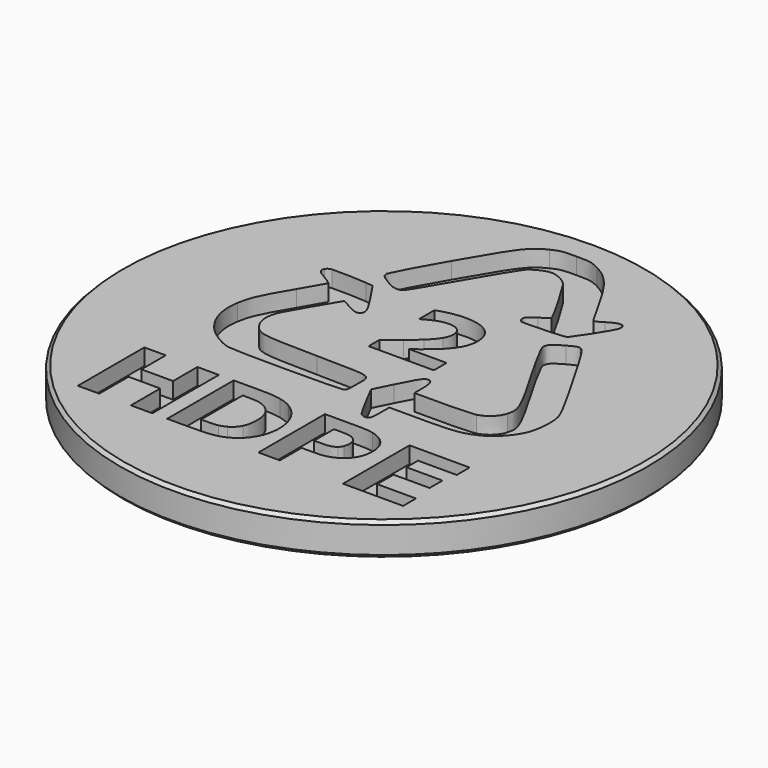
from build123d import *

# Parameters (mm, degrees)
POCKET_DEPTH = 1.25


with BuildPart() as part:
    # Sketch (on DatumPlane) → Revolution (revolve)
    with BuildSketch(Plane.YZ):
        Polygon((0, 0), (0, -2.5), (19.75, -2.5), (20, -2.25), (20, -0.25), (19.75, 0), align=None)
    revolve(axis=Axis((0, 0, 0), (0, 0, 1)))

    # Sketch005 → Pocket (cut)
    with BuildSketch(Plane.XY):
        with BuildLine():
            add(Edge.make_bspline(
                [(2.855006, -5.683383), (2.765753, -5.578961), (2.386869, -4.907978), (2.013278, -4.191839)],
                knots=[0, 0, 0, 0, 1, 1, 1, 1], degree=3))
            add(Edge.make_bspline(
                [(2.013278, -4.191839), (1.334181, -2.890089)],
                knots=[0, 0, 4.161938, 4.161938], degree=1))
            add(Edge.make_bspline(
                [(1.334181, -2.890089), (2.008692, -1.539303)],
                knots=[0, 0, 4.279835, 4.279835], degree=1))
            add(Edge.make_bspline(
                [(2.008692, -1.539303), (2.748467, -0.057989), (2.921328, 0.190367), (3.214133, 0.190367)],
                knots=[0, 0, 0, 0, 1, 1, 1, 1], degree=3))
            add(Edge.make_bspline(
                [(3.214133, 0.190367), (3.507997, 0.190367), (3.633939, -0.149006), (3.633939, -0.939228)],
                knots=[0, 0, 0, 0, 1, 1, 1, 1], degree=3))
            add(Edge.make_bspline(
                [(3.633939, -0.939228), (3.633939, -1.650075)],
                knots=[0, 0, 2.015, 2.015], degree=1))
            add(Edge.make_bspline(
                [(3.633939, -1.650075), (5.697336, -1.650075)],
                knots=[0, 0, 5.849, 5.849], degree=1))
            add(Edge.make_bspline(
                [(5.697336, -1.650075), (6.880553, -1.650075), (7.969225, -1.597511), (8.249683, -1.526956)],
                knots=[0, 0, 0, 0, 1, 1, 1, 1], degree=3))
            add(Edge.make_bspline(
                [(8.249683, -1.526956), (8.877275, -1.368911), (9.424081, -0.854208), (9.580361, -0.274594)],
                knots=[0, 0, 0, 0, 1, 1, 1, 1], degree=3))
            add(Edge.make_bspline(
                [(9.580361, -0.274594), (9.818839, 0.610525), (9.748283, 0.765747), (6.774014, 5.901839)],
                knots=[0, 0, 0, 0, 1, 1, 1, 1], degree=3))
            add(Edge.make_bspline(
                [(6.774014, 5.901839), (6.282594, 6.750269), (5.880781, 7.566244), (5.880781, 7.714764)],
                knots=[0, 0, 0, 0, 1, 1, 1, 1], degree=3))
            add(Edge.make_bspline(
                [(5.880781, 7.714764), (5.880781, 8.085181), (6.047292, 8.256983), (6.833281, 8.696544)],
                knots=[0, 0, 0, 0, 1, 1, 1, 1], degree=3))
            add(Edge.make_bspline(
                [(6.833281, 8.696544), (7.405486, 9.016514), (7.548008, 9.056025), (7.763908, 8.955483)],
                knots=[0, 0, 0, 0, 1, 1, 1, 1], degree=3))
            add(Edge.make_bspline(
                [(7.763908, 8.955483), (7.924422, 8.880694), (8.320592, 8.306725), (8.830708, 7.409611)],
                knots=[0, 0, 0, 0, 1, 1, 1, 1], degree=3))
            add(Edge.make_bspline(
                [(8.830708, 7.409611), (9.277325, 6.625033), (10.186433, 5.042825), (10.851067, 3.893828)],
                knots=[0, 0, 0, 0, 1, 1, 1, 1], degree=3))
            add(Edge.make_bspline(
                [(10.851067, 3.893828), (11.566147, 2.657694), (12.113306, 1.581369), (12.190917, 1.257872)],
                knots=[0, 0, 0, 0, 1, 1, 1, 1], degree=3))
            add(Edge.make_bspline(
                [(12.190917, 1.257872), (12.392353, 0.418967), (12.279464, -0.828456), (11.937269, -1.547064)],
                knots=[0, 0, 0, 0, 1, 1, 1, 1], degree=3))
            add(Edge.make_bspline(
                [(11.937269, -1.547064), (11.574967, -2.307653), (10.842247, -3.076003), (10.139161, -3.432308)],
                knots=[0, 0, 0, 0, 1, 1, 1, 1], degree=3))
            add(Edge.make_bspline(
                [(10.139161, -3.432308), (9.119986, -3.948775), (8.542842, -4.032031), (5.993317, -4.032031)],
                knots=[0, 0, 0, 0, 1, 1, 1, 1], degree=3))
            add(Edge.make_bspline(
                [(5.993317, -4.032031), (3.633939, -4.032031)],
                knots=[0, 0, 6.688, 6.688], degree=1))
            add(Edge.make_bspline(
                [(3.633939, -4.032031), (3.633939, -4.780978)],
                knots=[0, 0, 2.123, 2.123], degree=1))
            add(Edge.make_bspline(
                [(3.633939, -4.780978), (3.633939, -5.193022), (3.604658, -5.607183), (3.568322, -5.701375)],
                knots=[0, 0, 0, 0, 1, 1, 1, 1], degree=3))
            add(Edge.make_bspline(
                [(3.568322, -5.701375), (3.480481, -5.929975), (3.058206, -5.919392), (2.855006, -5.683383)],
                knots=[0, 0, 0, 0, 1, 1, 1, 1], degree=3))
        make_face()
        with BuildLine():
            add(Edge.make_bspline(
                [(2.708603, 1.340069), (-2.235578, 1.340069)],
                knots=[0, 0, 14.015, 14.015], degree=1))
            add(Edge.make_bspline(
                [(-2.235578, 1.340069), (-2.235578, 2.380764)],
                knots=[0, 0, 2.95, 2.95], degree=1))
            add(Edge.make_bspline(
                [(-2.235578, 2.380764), (-1.857753, 2.654167), (-1.479222, 2.944503), (-1.099986, 3.251772)],
                knots=[0, 0, 0, 0, 1, 1, 1, 1], degree=3))
            add(Edge.make_bspline(
                [(-1.099986, 3.251772), (-0.72075, 3.559042), (-0.417008, 3.824331), (-0.188761, 4.046933)],
                knots=[0, 0, 0, 0, 1, 1, 1, 1], degree=3))
            add(Edge.make_bspline(
                [(-0.188761, 4.046933), (0.152375, 4.376781), (0.395086, 4.664294), (0.538667, 4.909828)],
                knots=[0, 0, 0, 0, 1, 1, 1, 1], degree=3))
            add(Edge.make_bspline(
                [(0.538667, 4.909828), (0.6826, 5.155008), (0.754567, 5.397367), (0.754567, 5.637256)],
                knots=[0, 0, 0, 0, 1, 1, 1, 1], degree=3))
            add(Edge.make_bspline(
                [(0.754567, 5.637256), (0.754567, 5.924769), (0.662139, 6.146667), (0.477636, 6.3033)],
                knots=[0, 0, 0, 0, 1, 1, 1, 1], degree=3))
            add(Edge.make_bspline(
                [(0.477636, 6.3033), (0.292781, 6.459581), (0.027139, 6.537897), (-0.319642, 6.537897)],
                knots=[0, 0, 0, 0, 1, 1, 1, 1], degree=3))
            add(Edge.make_bspline(
                [(-0.319642, 6.537897), (-0.579286, 6.537897), (-0.851983, 6.484275), (-1.138086, 6.377383)],
                knots=[0, 0, 0, 0, 1, 1, 1, 1], degree=3))
            add(Edge.make_bspline(
                [(-1.138086, 6.377383), (-1.424189, 6.270139), (-1.689831, 6.133261), (-1.935364, 5.967103)],
                knots=[0, 0, 0, 0, 1, 1, 1, 1], degree=3))
            add(Edge.make_bspline(
                [(-1.935364, 5.967103), (-2.070478, 5.967103)],
                knots=[0, 0, 0.383, 0.383], degree=1))
            add(Edge.make_bspline(
                [(-2.070478, 5.967103), (-2.070478, 7.366925)],
                knots=[0, 0, 3.968, 3.968], degree=1))
            add(Edge.make_bspline(
                [(-2.070478, 7.366925), (-1.870453, 7.454414), (-1.575178, 7.54155), (-1.184653, 7.629039)],
                knots=[0, 0, 0, 0, 1, 1, 1, 1], degree=3))
            add(Edge.make_bspline(
                [(-1.184653, 7.629039), (-0.794128, 7.716528), (-0.402897, 7.760272), (-0.010961, 7.760272)],
                knots=[0, 0, 0, 0, 1, 1, 1, 1], degree=3))
            add(Edge.make_bspline(
                [(-0.010961, 7.760272), (0.778556, 7.760272), (1.380394, 7.594467), (1.794908, 7.263208)],
                knots=[0, 0, 0, 0, 1, 1, 1, 1], degree=3))
            add(Edge.make_bspline(
                [(1.794908, 7.263208), (2.209422, 6.93195), (2.416503, 6.463108), (2.416503, 5.857036)],
                knots=[0, 0, 0, 0, 1, 1, 1, 1], degree=3))
            add(Edge.make_bspline(
                [(2.416503, 5.857036), (2.416503, 5.459456), (2.317372, 5.081631), (2.118406, 4.723561)],
                knots=[0, 0, 0, 0, 1, 1, 1, 1], degree=3))
            add(Edge.make_bspline(
                [(2.118406, 4.723561), (1.919792, 4.365492), (1.615697, 3.996133), (1.207181, 3.615486)],
                knots=[0, 0, 0, 0, 1, 1, 1, 1], degree=3))
            add(Edge.make_bspline(
                [(1.207181, 3.615486), (0.950358, 3.378772), (0.692478, 3.160756), (0.433186, 2.962142)],
                knots=[0, 0, 0, 0, 1, 1, 1, 1], degree=3))
            add(Edge.make_bspline(
                [(0.433186, 2.962142), (0.173542, 2.763175), (-0.010961, 2.624533), (-0.121028, 2.545511)],
                knots=[0, 0, 0, 0, 1, 1, 1, 1], degree=3))
            add(Edge.make_bspline(
                [(-0.121028, 2.545511), (2.708603, 2.545511)],
                knots=[0, 0, 8.021, 8.021], degree=1))
            add(Edge.make_bspline(
                [(2.708603, 2.545511), (2.708603, 1.340069)],
                knots=[0, 0, 3.417, 3.417], degree=1))
        make_face()
        with BuildLine():
            add(Edge.make_bspline(
                [(-6.336972, 8.397389), (-7.057697, 8.820369), (-7.192811, 8.955483), (-7.192811, 9.251464)],
                knots=[0, 0, 0, 0, 1, 1, 1, 1], degree=3))
            add(Edge.make_bspline(
                [(-7.192811, 9.251464), (-7.192811, 9.396808), (-6.304869, 11.058744), (-5.218314, 12.946458)],
                knots=[0, 0, 0, 0, 1, 1, 1, 1], degree=3))
            add(Edge.make_bspline(
                [(-5.218314, 12.946458), (-3.072719, 16.673203), (-2.713944, 17.144867), (-1.614689, 17.682853)],
                knots=[0, 0, 0, 0, 1, 1, 1, 1], degree=3))
            add(Edge.make_bspline(
                [(-1.614689, 17.682853), (-1.024139, 17.971517), (-0.867153, 17.999354), (0.1746, 17.999982)],
                knots=[0, 0, 0, 0, 1, 1, 1, 1], degree=3))
            add(Edge.make_bspline(
                [(0.1746, 17.999982), (1.262214, 18.000643), (1.351467, 17.982987), (2.052083, 17.62759)],
                knots=[0, 0, 0, 0, 1, 1, 1, 1], degree=3))
            add(Edge.make_bspline(
                [(2.052083, 17.62759), (3.126292, 17.08269), (3.813503, 16.269678), (4.987547, 14.153999)],
                knots=[0, 0, 0, 0, 1, 1, 1, 1], degree=3))
            add(Edge.make_bspline(
                [(4.987547, 14.153999), (5.523417, 13.188093), (6.010603, 12.332607), (6.070222, 12.252527)],
                knots=[0, 0, 0, 0, 1, 1, 1, 1], degree=3))
            add(Edge.make_bspline(
                [(6.070222, 12.252527), (6.157006, 12.13611), (6.294942, 12.181618), (6.768722, 12.482891)],
                knots=[0, 0, 0, 0, 1, 1, 1, 1], degree=3))
            add(Edge.make_bspline(
                [(6.768722, 12.482891), (7.630206, 13.030049), (8.097283, 12.951732), (7.924775, 12.289216)],
                knots=[0, 0, 0, 0, 1, 1, 1, 1], degree=3))
            add(Edge.make_bspline(
                [(7.924775, 12.289216), (7.849633, 12.000643), (6.395131, 9.710057), (6.217331, 9.600343)],
                knots=[0, 0, 0, 0, 1, 1, 1, 1], degree=3))
            add(Edge.make_bspline(
                [(6.217331, 9.600343), (6.041647, 9.491688), (3.164392, 9.355868), (2.889578, 9.443357)],
                knots=[0, 0, 0, 0, 1, 1, 1, 1], degree=3))
            add(Edge.make_bspline(
                [(2.889578, 9.443357), (2.737178, 9.491688), (2.659567, 9.605988), (2.659567, 9.783082)],
                knots=[0, 0, 0, 0, 1, 1, 1, 1], degree=3))
            add(Edge.make_bspline(
                [(2.659567, 9.783082), (2.659567, 9.991574), (2.800325, 10.137624), (3.304444, 10.452302)],
                knots=[0, 0, 0, 0, 1, 1, 1, 1], degree=3))
            add(Edge.make_bspline(
                [(3.304444, 10.452302), (3.658986, 10.673846), (3.951439, 10.898213), (3.953908, 10.951482)],
                knots=[0, 0, 0, 0, 1, 1, 1, 1], degree=3))
            add(Edge.make_bspline(
                [(3.953908, 10.951482), (3.960611, 11.081305), (2.162856, 14.225613), (1.820308, 14.683166)],
                knots=[0, 0, 0, 0, 1, 1, 1, 1], degree=3))
            add(Edge.make_bspline(
                [(1.820308, 14.683166), (1.513392, 15.092952), (0.818772, 15.451586), (0.331939, 15.451586)],
                knots=[0, 0, 0, 0, 1, 1, 1, 1], degree=3))
            add(Edge.make_bspline(
                [(0.331939, 15.451586), (-0.105153, 15.451586), (-0.794481, 15.119975), (-1.148669, 14.739152)],
                knots=[0, 0, 0, 0, 1, 1, 1, 1], degree=3))
            add(Edge.make_bspline(
                [(-1.148669, 14.739152), (-1.308125, 14.567913), (-2.223231, 13.063563), (-3.182081, 11.396335)],
                knots=[0, 0, 0, 0, 1, 1, 1, 1], degree=3))
            add(Edge.make_bspline(
                [(-3.182081, 11.396335), (-4.141283, 9.728755), (-5.006647, 8.303885), (-5.105778, 8.229449)],
                knots=[0, 0, 0, 0, 1, 1, 1, 1], degree=3))
            add(Edge.make_bspline(
                [(-5.105778, 8.229449), (-5.382356, 8.020957), (-5.791225, 8.076696), (-6.336972, 8.397371)],
                knots=[0, 0, 0, 0, 1, 1, 1, 1], degree=3))
            add(Edge.make_bspline(
                [(-6.336972, 8.397371), (-6.336972, 8.397389)],
                knots=[0, 0, 5e-05, 5e-05], degree=1))
        make_face()
        with BuildLine():
            add(Edge.make_bspline(
                [(-8.654369, -3.930431), (-9.269579, -3.779442), (-10.152017, -3.251686), (-10.658324, -2.732044)],
                knots=[0, 0, 0, 0, 1, 1, 1, 1], degree=3))
            add(Edge.make_bspline(
                [(-10.658324, -2.732044), (-11.587152, -1.778486), (-11.978453, -0.513072), (-11.757756, 0.82325)],
                knots=[0, 0, 0, 0, 1, 1, 1, 1], degree=3))
            add(Edge.make_bspline(
                [(-11.757756, 0.82325), (-11.593326, 1.818789), (-11.341548, 2.37265), (-10.133567, 4.396183)],
                knots=[0, 0, 0, 0, 1, 1, 1, 1], degree=3))
            add(Edge.make_bspline(
                [(-10.133567, 4.396183), (-9.588031, 5.310231), (-9.141661, 6.097278), (-9.141661, 6.145256)],
                knots=[0, 0, 0, 0, 1, 1, 1, 1], degree=3))
            add(Edge.make_bspline(
                [(-9.141661, 6.145256), (-9.141661, 6.193586), (-9.399083, 6.378089), (-9.713655, 6.555536)],
                knots=[0, 0, 0, 0, 1, 1, 1, 1], degree=3))
            add(Edge.make_bspline(
                [(-9.713655, 6.555536), (-10.459392, 6.9764), (-10.600327, 7.146439), (-10.444611, 7.437481)],
                knots=[0, 0, 0, 0, 1, 1, 1, 1], degree=3))
            add(Edge.make_bspline(
                [(-10.444611, 7.437481), (-10.378818, 7.560247), (-10.217104, 7.665728), (-10.085201, 7.671725)],
                knots=[0, 0, 0, 0, 1, 1, 1, 1], degree=3))
            add(Edge.make_bspline(
                [(-10.085201, 7.671725), (-9.52312, 7.697125), (-7.961514, 7.650206), (-7.445047, 7.59235)],
                knots=[0, 0, 0, 0, 1, 1, 1, 1], degree=3))
            add(Edge.make_bspline(
                [(-7.445047, 7.59235), (-6.885189, 7.529908)],
                knots=[0, 0, 1.59684, 1.59684], degree=1))
            add(Edge.make_bspline(
                [(-6.885189, 7.529908), (-6.010653, 6.23345)],
                knots=[0, 0, 4.432952, 4.432952], degree=1))
            add(Edge.make_bspline(
                [(-6.010653, 6.23345), (-5.116008, 4.908064), (-4.975956, 4.505897), (-5.340375, 4.310811)],
                knots=[0, 0, 0, 0, 1, 1, 1, 1], degree=3))
            add(Edge.make_bspline(
                [(-5.340375, 4.310811), (-5.500889, 4.225086), (-5.699856, 4.283294), (-6.257597, 4.579275)],
                knots=[0, 0, 0, 0, 1, 1, 1, 1], degree=3))
            add(Edge.make_bspline(
                [(-6.257597, 4.579275), (-6.969503, 4.9571)],
                knots=[0, 0, 2.284593, 2.284593], degree=1))
            add(Edge.make_bspline(
                [(-6.969503, 4.9571), (-7.122256, 4.711919)],
                knots=[0, 0, 0.818849, 0.818849], degree=1))
            add(Edge.make_bspline(
                [(-7.122256, 4.711919), (-7.563228, 4.006011), (-8.775019, 1.911217), (-8.995999, 1.473772)],
                knots=[0, 0, 0, 0, 1, 1, 1, 1], degree=3))
            add(Edge.make_bspline(
                [(-8.995999, 1.473772), (-9.370402, 0.732233), (-9.347578, -0.075275), (-8.936239, -0.643247)],
                knots=[0, 0, 0, 0, 1, 1, 1, 1], degree=3))
            add(Edge.make_bspline(
                [(-8.936239, -0.643247), (-8.349922, -1.452519), (-8.198228, -1.479331), (-3.854828, -1.541419)],
                knots=[0, 0, 0, 0, 1, 1, 1, 1], degree=3))
            add(Edge.make_bspline(
                [(-3.854828, -1.541419), (0.628272, -1.605272), (0.277611, -1.489208), (0.277611, -2.912314)],
                knots=[0, 0, 0, 0, 1, 1, 1, 1], degree=3))
            add(Edge.make_bspline(
                [(0.277611, -2.912314), (0.277611, -3.687014), (0.249389, -3.823186), (0.068414, -3.9202)],
                knots=[0, 0, 0, 0, 1, 1, 1, 1], degree=3))
            add(Edge.make_bspline(
                [(0.068414, -3.9202), (-0.172886, -4.049317), (-8.131553, -4.058489), (-8.654369, -3.930431)],
                knots=[0, 0, 0, 0, 1, 1, 1, 1], degree=3))
        make_face()
        with BuildLine():
            add(Edge.make_bspline(
                [(6.385328, -9.058056), (6.385328, -9.339925), (6.335939, -9.615444), (6.237161, -9.884614)],
                knots=[0, 0, 0, 0, 1, 1, 1, 1], degree=3))
            add(Edge.make_bspline(
                [(6.237161, -9.884614), (6.138383, -10.154136), (5.997625, -10.380267), (5.814181, -10.563711)],
                knots=[0, 0, 0, 0, 1, 1, 1, 1], degree=3))
            add(Edge.make_bspline(
                [(5.814181, -10.563711), (5.563356, -10.811714), (5.283603, -10.999039), (4.974922, -11.126039)],
                knots=[0, 0, 0, 0, 1, 1, 1, 1], degree=3))
            add(Edge.make_bspline(
                [(4.974922, -11.126039), (4.666065, -11.253039), (4.281926, -11.316186), (3.822327, -11.316186)],
                knots=[0, 0, 0, 0, 1, 1, 1, 1], degree=3))
            add(Edge.make_bspline(
                [(3.822327, -11.316186), (2.811548, -11.316186)],
                knots=[0, 0, 2.8652, 2.8652], degree=1))
            add(Edge.make_bspline(
                [(2.811548, -11.316186), (2.811548, -13.367589)],
                knots=[0, 0, 5.815, 5.815], degree=1))
            add(Edge.make_bspline(
                [(2.811548, -13.367589), (1.1875, -13.367589)],
                knots=[0, 0, 4.6036, 4.6036], degree=1))
            add(Edge.make_bspline(
                [(1.1875, -13.367589), (1.1875, -7.070153)],
                knots=[0, 0, 17.851, 17.851], degree=1))
            add(Edge.make_bspline(
                [(1.1875, -7.070153), (3.860391, -7.070153)],
                knots=[0, 0, 7.5767, 7.5767], degree=1))
            add(Edge.make_bspline(
                [(3.860391, -7.070153), (4.260759, -7.070153), (4.598402, -7.104725), (4.873322, -7.173869)],
                knots=[0, 0, 0, 0, 1, 1, 1, 1], degree=3))
            add(Edge.make_bspline(
                [(4.873322, -7.173869), (5.148136, -7.243014), (5.391553, -7.346378), (5.602867, -7.484667)],
                knots=[0, 0, 0, 0, 1, 1, 1, 1], degree=3))
            add(Edge.make_bspline(
                [(5.602867, -7.484667), (5.856514, -7.650825), (6.050542, -7.863903), (6.184244, -8.123194)],
                knots=[0, 0, 0, 0, 1, 1, 1, 1], degree=3))
            add(Edge.make_bspline(
                [(6.184244, -8.123194), (6.3183, -8.382486), (6.385328, -8.694342), (6.385328, -9.058056)],
                knots=[0, 0, 0, 0, 1, 1, 1, 1], degree=3))
        make_face()
        with BuildLine():
            add(Edge.make_bspline(
                [(4.706247, -9.095803), (4.706247, -8.918356), (4.658304, -8.76525), (4.562454, -8.637192)],
                knots=[0, 0, 0, 0, 1, 1, 1, 1], degree=3))
            add(Edge.make_bspline(
                [(4.562454, -8.637192), (4.466605, -8.508781), (4.355233, -8.419175), (4.228339, -8.368375)],
                knots=[0, 0, 0, 0, 1, 1, 1, 1], degree=3))
            add(Edge.make_bspline(
                [(4.228339, -8.368375), (4.059182, -8.300994), (3.894223, -8.2636), (3.733532, -8.256544)],
                knots=[0, 0, 0, 0, 1, 1, 1, 1], degree=3))
            add(Edge.make_bspline(
                [(3.733532, -8.256544), (3.572807, -8.249489), (3.35853, -8.245961), (3.090666, -8.245961)],
                knots=[0, 0, 0, 0, 1, 1, 1, 1], degree=3))
            add(Edge.make_bspline(
                [(3.090666, -8.245961), (2.811548, -8.245961)],
                knots=[0, 0, 0.7912, 0.7912], degree=1))
            add(Edge.make_bspline(
                [(2.811548, -8.245961), (2.811548, -10.132264)],
                knots=[0, 0, 5.347, 5.347], degree=1))
            add(Edge.make_bspline(
                [(2.811548, -10.132264), (3.276756, -10.132264)],
                knots=[0, 0, 1.3187, 1.3187], degree=1))
            add(Edge.make_bspline(
                [(3.276756, -10.132264), (3.553051, -10.132264), (3.780734, -10.115331), (3.959769, -10.081464)],
                knots=[0, 0, 0, 0, 1, 1, 1, 1], degree=3))
            add(Edge.make_bspline(
                [(3.959769, -10.081464), (4.138804, -10.047597), (4.288946, -9.979864), (4.410196, -9.878264)],
                knots=[0, 0, 0, 0, 1, 1, 1, 1], degree=3))
            add(Edge.make_bspline(
                [(4.410196, -9.878264), (4.514512, -9.788306), (4.589936, -9.680356), (4.636467, -9.554767)],
                knots=[0, 0, 0, 0, 1, 1, 1, 1], degree=3))
            add(Edge.make_bspline(
                [(4.636467, -9.554767), (4.682999, -9.429531), (4.706247, -9.276425), (4.706247, -9.095803)],
                knots=[0, 0, 0, 0, 1, 1, 1, 1], degree=3))
        make_face(mode=Mode.SUBTRACT)
        with BuildLine():
            add(Edge.make_bspline(
                [(12.148858, -13.367589), (7.594144, -13.367589)],
                knots=[0, 0, 12.911, 12.911], degree=1))
            add(Edge.make_bspline(
                [(7.594144, -13.367589), (7.594144, -7.070153)],
                knots=[0, 0, 17.851, 17.851], degree=1))
            add(Edge.make_bspline(
                [(7.594144, -7.070153), (12.148858, -7.070153)],
                knots=[0, 0, 12.911, 12.911], degree=1))
            add(Edge.make_bspline(
                [(12.148858, -7.070153), (12.148858, -8.288294)],
                knots=[0, 0, 3.453, 3.453], degree=1))
            add(Edge.make_bspline(
                [(12.148858, -8.288294), (9.209513, -8.288294)],
                knots=[0, 0, 8.332, 8.332], degree=1))
            add(Edge.make_bspline(
                [(9.209513, -8.288294), (9.209513, -9.375203)],
                knots=[0, 0, 3.081, 3.081], degree=1))
            add(Edge.make_bspline(
                [(9.209513, -9.375203), (11.937544, -9.375203)],
                knots=[0, 0, 7.733, 7.733], degree=1))
            add(Edge.make_bspline(
                [(11.937544, -9.375203), (11.937544, -10.592992)],
                knots=[0, 0, 3.452, 3.452], degree=1))
            add(Edge.make_bspline(
                [(11.937544, -10.592992), (9.209513, -10.592992)],
                knots=[0, 0, 7.733, 7.733], degree=1))
            add(Edge.make_bspline(
                [(9.209513, -10.592992), (9.209513, -12.149447)],
                knots=[0, 0, 4.412, 4.412], degree=1))
            add(Edge.make_bspline(
                [(9.209513, -12.149447), (12.148858, -12.149447)],
                knots=[0, 0, 8.332, 8.332], degree=1))
            add(Edge.make_bspline(
                [(12.148858, -12.149447), (12.148858, -13.367589)],
                knots=[0, 0, 3.453, 3.453], degree=1))
        make_face()
        with BuildLine():
            add(Edge.make_bspline(
                [(-6.851478, -13.367589), (-8.475314, -13.367589)],
                knots=[0, 0, 4.603, 4.603], degree=1))
            add(Edge.make_bspline(
                [(-8.475314, -13.367589), (-8.475314, -10.592992)],
                knots=[0, 0, 7.865, 7.865], degree=1))
            add(Edge.make_bspline(
                [(-8.475314, -10.592992), (-10.873498, -10.592992)],
                knots=[0, 0, 6.798, 6.798], degree=1))
            add(Edge.make_bspline(
                [(-10.873498, -10.592992), (-10.873498, -13.367589)],
                knots=[0, 0, 7.865, 7.865], degree=1))
            add(Edge.make_bspline(
                [(-10.873498, -13.367589), (-12.497334, -13.367589)],
                knots=[0, 0, 4.603, 4.603], degree=1))
            add(Edge.make_bspline(
                [(-12.497334, -13.367589), (-12.497334, -7.070153)],
                knots=[0, 0, 17.851, 17.851], degree=1))
            add(Edge.make_bspline(
                [(-12.497334, -7.070153), (-10.873498, -7.070153)],
                knots=[0, 0, 4.603, 4.603], degree=1))
            add(Edge.make_bspline(
                [(-10.873498, -7.070153), (-10.873498, -9.375203)],
                knots=[0, 0, 6.534, 6.534], degree=1))
            add(Edge.make_bspline(
                [(-10.873498, -9.375203), (-8.475314, -9.375203)],
                knots=[0, 0, 6.798, 6.798], degree=1))
            add(Edge.make_bspline(
                [(-8.475314, -9.375203), (-8.475314, -7.070153)],
                knots=[0, 0, 6.534, 6.534], degree=1))
            add(Edge.make_bspline(
                [(-8.475314, -7.070153), (-6.851478, -7.070153)],
                knots=[0, 0, 4.603, 4.603], degree=1))
            add(Edge.make_bspline(
                [(-6.851478, -7.070153), (-6.851478, -13.367589)],
                knots=[0, 0, 17.851, 17.851], degree=1))
        make_face()
        with BuildLine():
            add(Edge.make_bspline(
                [(0.223166, -10.225044), (0.223166, -10.811714), (0.089111, -11.336647), (-0.178648, -11.80055)],
                knots=[0, 0, 0, 0, 1, 1, 1, 1], degree=3))
            add(Edge.make_bspline(
                [(-0.178648, -11.80055), (-0.446759, -12.264453), (-0.785073, -12.620406), (-1.193942, -12.868408)],
                knots=[0, 0, 0, 0, 1, 1, 1, 1], degree=3))
            add(Edge.make_bspline(
                [(-1.193942, -12.868408), (-1.501212, -13.054675), (-1.838114, -13.184144), (-2.204651, -13.257522)],
                knots=[0, 0, 0, 0, 1, 1, 1, 1], degree=3))
            add(Edge.make_bspline(
                [(-2.204651, -13.257522), (-2.571187, -13.3309), (-3.005456, -13.367589), (-3.507106, -13.367589)],
                knots=[0, 0, 0, 0, 1, 1, 1, 1], degree=3))
            add(Edge.make_bspline(
                [(-3.507106, -13.367589), (-5.727489, -13.367589)],
                knots=[0, 0, 6.294, 6.294], degree=1))
            add(Edge.make_bspline(
                [(-5.727489, -13.367589), (-5.727489, -7.070153)],
                knots=[0, 0, 17.851, 17.851], degree=1))
            add(Edge.make_bspline(
                [(-5.727489, -7.070153), (-3.443606, -7.070153)],
                knots=[0, 0, 6.474, 6.474], degree=1))
            add(Edge.make_bspline(
                [(-3.443606, -7.070153), (-2.930667, -7.070153), (-2.487931, -7.113192), (-2.115751, -7.199269)],
                knots=[0, 0, 0, 0, 1, 1, 1, 1], degree=3))
            add(Edge.make_bspline(
                [(-2.115751, -7.199269), (-1.74357, -7.284994), (-1.430656, -7.407056), (-1.177009, -7.5651)],
                knots=[0, 0, 0, 0, 1, 1, 1, 1], degree=3))
            add(Edge.make_bspline(
                [(-1.177009, -7.5651), (-0.742739, -7.830036), (-0.400898, -8.1874), (-0.151131, -8.637192)],
                knots=[0, 0, 0, 0, 1, 1, 1, 1], degree=3))
            add(Edge.make_bspline(
                [(-0.151131, -8.637192), (0.098283, -9.086983), (0.223166, -9.61615), (0.223166, -10.225044)],
                knots=[0, 0, 0, 0, 1, 1, 1, 1], degree=3))
        make_face()
        with BuildLine():
            add(Edge.make_bspline(
                [(-1.456056, -10.212344), (-1.456056, -9.798183), (-1.531551, -9.443642), (-1.682187, -9.148719)],
                knots=[0, 0, 0, 0, 1, 1, 1, 1], degree=3))
            add(Edge.make_bspline(
                [(-1.682187, -9.148719), (-1.833176, -8.85415), (-2.072006, -8.623786), (-2.399031, -8.457275)],
                knots=[0, 0, 0, 0, 1, 1, 1, 1], degree=3))
            add(Edge.make_bspline(
                [(-2.399031, -8.457275), (-2.565542, -8.375431), (-2.735228, -8.320044), (-2.908795, -8.290411)],
                knots=[0, 0, 0, 0, 1, 1, 1, 1], degree=3))
            add(Edge.make_bspline(
                [(-2.908795, -8.290411), (-3.082009, -8.260778), (-3.34377, -8.245961), (-3.693373, -8.245961)],
                knots=[0, 0, 0, 0, 1, 1, 1, 1], degree=3))
            add(Edge.make_bspline(
                [(-3.693373, -8.245961), (-4.103653, -8.245961)],
                knots=[0, 0, 1.163, 1.163], degree=1))
            add(Edge.make_bspline(
                [(-4.103653, -8.245961), (-4.103653, -12.187547)],
                knots=[0, 0, 11.173, 11.173], degree=1))
            add(Edge.make_bspline(
                [(-4.103653, -12.187547), (-3.693373, -12.187547)],
                knots=[0, 0, 1.163, 1.163], degree=1))
            add(Edge.make_bspline(
                [(-3.693373, -12.187547), (-3.307081, -12.187547), (-3.023801, -12.169908), (-2.843178, -12.134631)],
                knots=[0, 0, 0, 0, 1, 1, 1, 1], degree=3))
            add(Edge.make_bspline(
                [(-2.843178, -12.134631), (-2.662909, -12.099353), (-2.48652, -12.035147), (-2.314364, -11.942367)],
                knots=[0, 0, 0, 0, 1, 1, 1, 1], degree=3))
            add(Edge.make_bspline(
                [(-2.314364, -11.942367), (-2.018384, -11.773033), (-1.801426, -11.546903), (-1.663137, -11.263622)],
                knots=[0, 0, 0, 0, 1, 1, 1, 1], degree=3))
            add(Edge.make_bspline(
                [(-1.663137, -11.263622), (-1.525201, -10.979989), (-1.456056, -10.629681), (-1.456056, -10.212344)],
                knots=[0, 0, 0, 0, 1, 1, 1, 1], degree=3))
        make_face(mode=Mode.SUBTRACT)
    extrude(amount=-POCKET_DEPTH, mode=Mode.SUBTRACT)


solid = part.part
